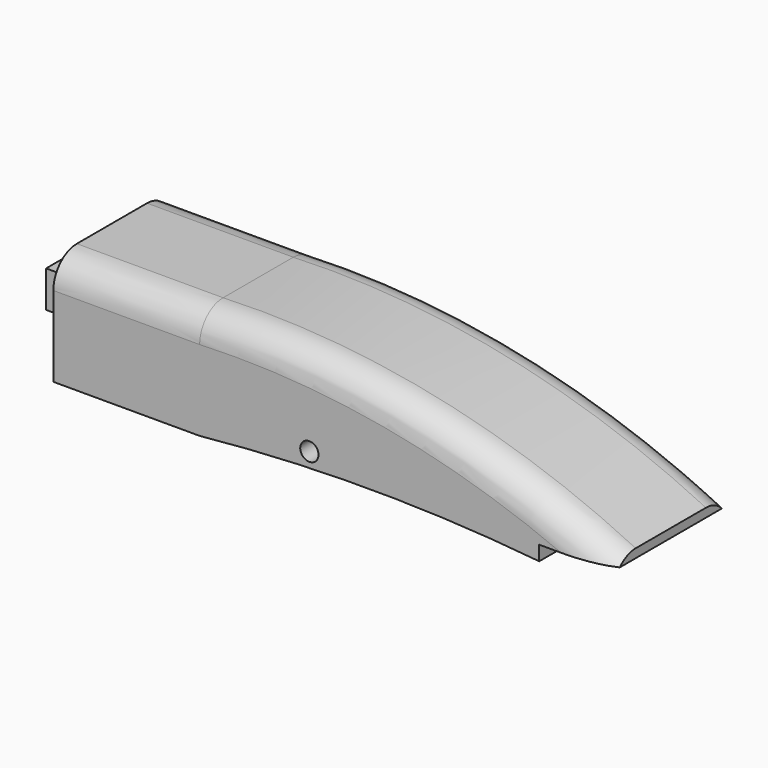
from build123d import *

# Parameters (mm, degrees)
F1_DEPTH = 12.7
F2_R     = 2.54
F3_DEPTH = 12.7
F4_SCALE = 2
F5_W     = 12.7
F5_H     = 6.35
F6_DEPTH = 6.35
F7_R     = 1.5875
F8_DEPTH = 25.4


with BuildPart() as f1:
    # F0 (on Front) → F1 (new body)
    with BuildSketch(Plane.XZ):
        with BuildLine():
            Line((61.5102246263, 7.086984636), (61.5102246263, 7.848984636))
            ThreePointArc((61.5102246263, 7.848984636), (44.0614550619, 13.8211347469), (25.6817610527, 15.341984636))
            Line((25.6817610527, 15.341984636), (25.6817610527, 5.816984636))
            ThreePointArc((25.6817610527, 5.816984636), (40.4209928395, 6.5545750011), (55.1602246263, 5.816984636))
            Line((55.1602246263, 5.816984636), (55.1602246263, 7.086984636))
            Line((55.1602246263, 7.086984636), (61.5102246263, 7.086984636))
        make_face()
    extrude(amount=F1_DEPTH)

    # F2
    f2_edges = [f1.edges().sort_by_distance(p)[0] for p in [
        (44.061455, -12.7, 13.821135),
        (44.061455, 0, 13.821135),
    ]]
    fillet(f2_edges, radius=F2_R)

    # F3 (add): a face of the model
    f3_faces = [f1.faces().sort_by_distance(p)[0] for p in [
        (25.6817610527, -6.35, 10.4811297922),
    ]]
    extrude(f3_faces, amount=F3_DEPTH)


with BuildPart() as f1_1:
    # F4: moved
    add(f1.part.scale(F4_SCALE))

    # F5 (on face) → F6 (join)
    with BuildSketch(Plane(origin=(25.9635221053, 0, 0), x_dir=(0, -1, 0), z_dir=(-1, 0, 0))):
        with Locations((12.7, 21.1589692719)):
            Rectangle(F5_W, F5_H)
    extrude(amount=F6_DEPTH)

    # F7 (on face) → F8 (cut)
    with BuildSketch(Plane.XZ.offset(25.4)):
        with Locations((70.4135221053, 15.4439692719)):
            Circle(F7_R)
    extrude(amount=-F8_DEPTH, mode=Mode.SUBTRACT)


solid = f1_1.part
